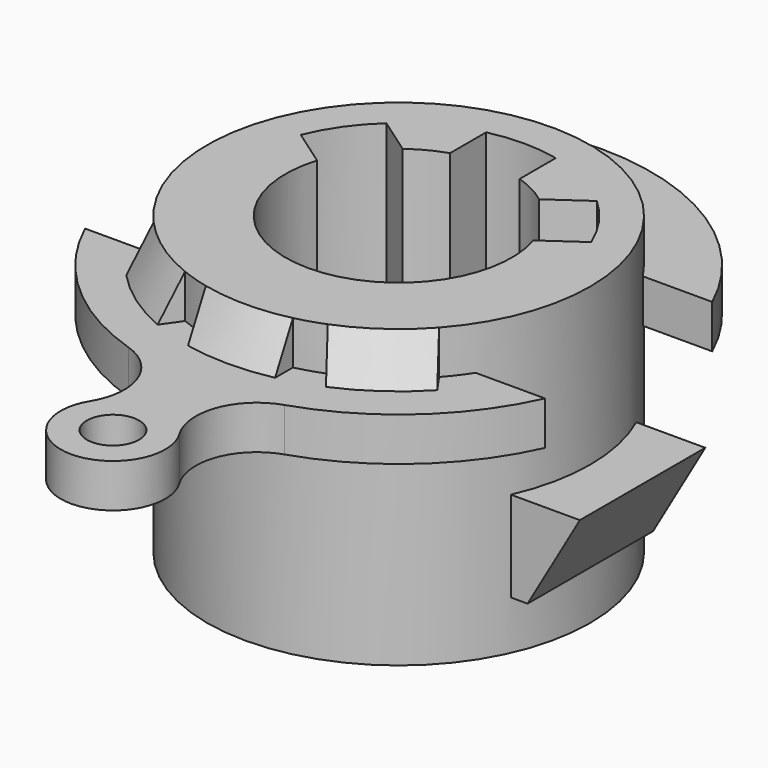
from build123d import *

# Parameters (mm, degrees)
F0_R      = 44
F1_DEPTH  = 34
F3_R      = 6
F4_DEPTH  = 10
F5_W      = 12.3737903833
F5_H      = 20.7846096908
F6_DEPTH  = 18
F4_FACE_R = 6
F8_DEPTH  = 10
F12_DEPTH = 107.2


with BuildPart() as f1:
    # F0 (on Top) → F1 (new body, symmetric)
    with BuildSketch(Plane.XY):
        Circle(F0_R)
        with BuildLine():
            ThreePointArc((-15.6760909215, 20.742713743), (-12.0054639441, 23.0622816626), (-8, 24.7386337537))
            Line((-8, 24.7386337537), (-8, 35.0998575496))
            ThreePointArc((-8, 35.0998575496), (0, 36), (8, 35.0998575496))
            Line((8, 35.0998575496), (8, 24.7386337537))
            ThreePointArc((8, 24.7386337537), (12.0054639441, 23.0622816626), (15.6760909215, 20.742713743))
            Line((15.6760909215, 20.742713743), (24.1635085752, 26.685667564))
            ThreePointArc((24.1635085752, 26.685667564), (29.4894735944, 20.6487517086), (33.3407315568, 13.5792348554))
            Line((33.3407315568, 13.5792348554), (24.8533139031, 7.6362810343))
            ThreePointArc((24.8533139031, 7.6362810343), (0, -26), (-24.8533139031, 7.6362810343))
            Line((-24.8533139031, 7.6362810343), (-33.3407315568, 13.5792348554))
            ThreePointArc((-33.3407315568, 13.5792348554), (-29.4894735944, 20.6487517086), (-24.1635085752, 26.685667564))
            Line((-24.1635085752, 26.685667564), (-15.6760909215, 20.742713743))
        make_face(mode=Mode.SUBTRACT)
    extrude(amount=F1_DEPTH, both=True)

    # F3 (on offset) → F4 (join)
    with BuildSketch(Plane.XY.offset(24)):
        with BuildLine():
            Line((-36.8781778292, -24), (-52.8015151298, -24))
            ThreePointArc((-52.8015151298, -24), (-38.6311115614, -43.2624227191), (-17.8938638331, -55.1707317073))
            ThreePointArc((-17.8938638331, -55.1707317073), (-9.0876412514, -63.6171726174), (-10.252187236, -75.7636022514))
            ThreePointArc((-10.252187236, -75.7636022514), (0, -94), (10.252187236, -75.7636022514))
            ThreePointArc((10.252187236, -75.7636022514), (9.0876412514, -63.6171726174), (17.8938638331, -55.1707317073))
            ThreePointArc((17.8938638331, -55.1707317073), (38.6311115614, -43.2624227191), (52.8015151298, -24))
            Line((52.8015151298, -24), (36.8781778292, -24))
            ThreePointArc((36.8781778292, -24), (0, -44), (-36.8781778292, -24))
        make_face()
        with Locations((0, -82)):
            Circle(F3_R, mode=Mode.SUBTRACT)
        with BuildLine():
            Line((-52.8015151298, 24), (-36.8781778292, 24))
            ThreePointArc((-36.8781778292, 24), (0, 44), (36.8781778292, 24))
            Line((36.8781778292, 24), (52.8015151298, 24))
            ThreePointArc((52.8015151298, 24), (0, 58), (-52.8015151298, 24))
        make_face()
    extrude(amount=-F4_DEPTH)

    # F5 (on Front) → F6 (join, symmetric)
    with BuildSketch(Plane.XZ):
        Polygon((56, -2), (44, -2), (44, -22.7846096908), align=None)
        with Locations((37.8131048083, -12.3923048454)):
            Rectangle(F5_W, F5_H)
    extrude(amount=F6_DEPTH, both=True)

    # F7 (on face) + F4_face (on face) → F8 (join, through all)
    with BuildSketch(Plane.XY.offset(34)):
        with BuildLine():
            ThreePointArc((-16.3854099681, -40.8352585418), (-25.2373631994, -36.0426899487), (-32.7684508539, -29.3637298148))
            Line((-32.7684508539, -29.3637298148), (-35.7052592856, -33.5579269227))
            ThreePointArc((-35.7052592856, -33.5579269227), (-28.1052453812, -40.1384501702), (-19.3222183998, -45.0294556497))
            Line((-19.3222183998, -45.0294556497), (-16.3854099681, -40.8352585418))
        make_face()
        with BuildLine():
            ThreePointArc((10, -42.8485705713), (0, -44), (-10, -42.8485705713))
            Line((-10, -42.8485705713), (-10, -47.9687398208))
            ThreePointArc((-10, -47.9687398208), (0, -49), (10, -47.9687398208))
            Line((10, -47.9687398208), (10, -42.8485705713))
        make_face()
        with BuildLine():
            Line((35.7052592856, -33.5579269227), (32.7684508539, -29.3637298148))
            ThreePointArc((32.7684508539, -29.3637298148), (29.1945327607, -32.9192839668), (25.2373631994, -36.0426899487))
            ThreePointArc((25.2373631994, -36.0426899487), (20.948889946, -38.692945223), (16.3854099681, -40.8352585418))
            Line((16.3854099681, -40.8352585418), (19.3222183998, -45.0294556497))
            ThreePointArc((19.3222183998, -45.0294556497), (28.1052453812, -40.1384501702), (35.7052592856, -33.5579269227))
        make_face()
    with BuildSketch(Plane(origin=(0, -50.9642463073, 24), x_dir=(1, 0, 0), z_dir=(0, 0, 1))):
        with BuildLine():
            ThreePointArc((36.8781778292, 26.9642463073), (0, 6.9642463073), (-36.8781778292, 26.9642463073))
            Line((-36.8781778292, 26.9642463073), (-52.8015151298, 26.9642463073))
            ThreePointArc((-52.8015151298, 26.9642463073), (-38.6311115614, 7.7018235881), (-17.8938638331, -4.2064854001))
            ThreePointArc((-17.8938638331, -4.2064854001), (-9.0876412514, -12.6529263101), (-10.252187236, -24.7993559441))
            ThreePointArc((-10.252187236, -24.7993559441), (0, -43.0357536927), (10.252187236, -24.7993559441))
            ThreePointArc((10.252187236, -24.7993559441), (9.0876412514, -12.6529263101), (17.8938638331, -4.2064854001))
            ThreePointArc((17.8938638331, -4.2064854001), (38.6311115614, 7.7018235881), (52.8015151298, 26.9642463073))
            Line((52.8015151298, 26.9642463073), (36.8781778292, 26.9642463073))
        make_face()
        with Locations((0, -31.0357536927)):
            Circle(F4_FACE_R, mode=Mode.SUBTRACT)
    extrude(amount=-F8_DEPTH)

    # F9 (on Right) → F10 (revolve, cut)
    with BuildSketch(Plane.YZ):
        Polygon((-49, 34), (-49, 24), (-44, 34), align=None)
    revolve(axis=Axis((0, 0, 3.8276161067), (0, 0, 1)), mode=Mode.SUBTRACT)

    # F11 (on face) → F12 (cut)
    with BuildSketch(Plane(origin=(0, 0, -34), x_dir=(1, 0, 0), z_dir=(0, 0, -1))):
        with BuildLine():
            ThreePointArc((24.8533139031, -7.6362810343), (0, 26), (-24.8533139031, -7.6362810343))
            Line((-24.8533139031, -7.6362810343), (-33.3407315568, -13.5792348554))
            ThreePointArc((-33.3407315568, -13.5792348554), (-29.4894735944, -20.6487517086), (-24.1635085752, -26.685667564))
            Line((-24.1635085752, -26.685667564), (-15.6760909215, -20.742713743))
            ThreePointArc((-15.6760909215, -20.742713743), (-12.0054639441, -23.0622816626), (-8, -24.7386337537))
            Line((-8, -24.7386337537), (-8, -35.0998575496))
            ThreePointArc((-8, -35.0998575496), (0, -36), (8, -35.0998575496))
            Line((8, -35.0998575496), (8, -24.7386337537))
            ThreePointArc((8, -24.7386337537), (12.0054639441, -23.0622816626), (15.6760909215, -20.742713743))
            Line((15.6760909215, -20.742713743), (24.1635085752, -26.685667564))
            ThreePointArc((24.1635085752, -26.685667564), (29.4894735944, -20.6487517086), (33.3407315568, -13.5792348554))
            Line((33.3407315568, -13.5792348554), (24.8533139031, -7.6362810343))
        make_face()
    extrude(amount=-F12_DEPTH, mode=Mode.SUBTRACT)


solid = f1.part
